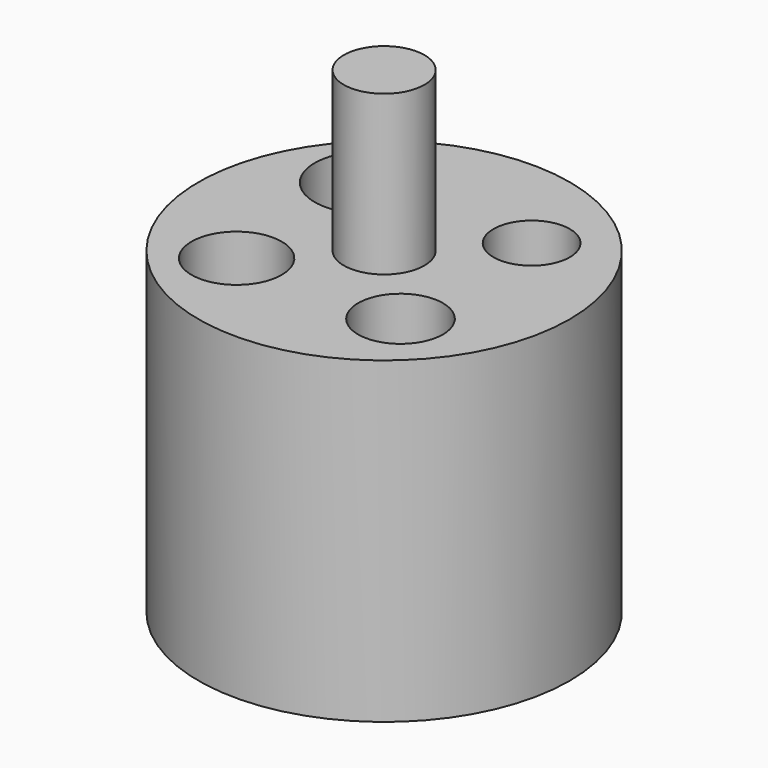
from build123d import *

# Parameters (mm, degrees)
F0_R     = 44.45
F0_R_2   = 10.795
F0_R_3   = 10.16
F0_R_4   = 12.7
F0_R_5   = 9.144
F1_DEPTH = 76.2
F2_R     = 9.652
F3_DEPTH = 38.1


with BuildPart() as f1:
    # F0 (on Top) → F1 (new body)
    with BuildSketch(Plane.XY):
        Circle(F0_R)
        with Locations((-19.62088, -19.62088)):
            Circle(F0_R_2, mode=Mode.SUBTRACT)
        with Locations((19.62088, -19.62088)):
            Circle(F0_R_3, mode=Mode.SUBTRACT)
        with Locations((-19.62088, 19.62088)):
            Circle(F0_R_4, mode=Mode.SUBTRACT)
        with Locations((19.62088, 19.62088)):
            Circle(F0_R_5, mode=Mode.SUBTRACT)
    extrude(amount=F1_DEPTH)

    # F2 (on face) → F3 (join)
    with BuildSketch(Plane.XY.offset(76.2)):
        Circle(F2_R)
    extrude(amount=F3_DEPTH)


solid = f1.part
